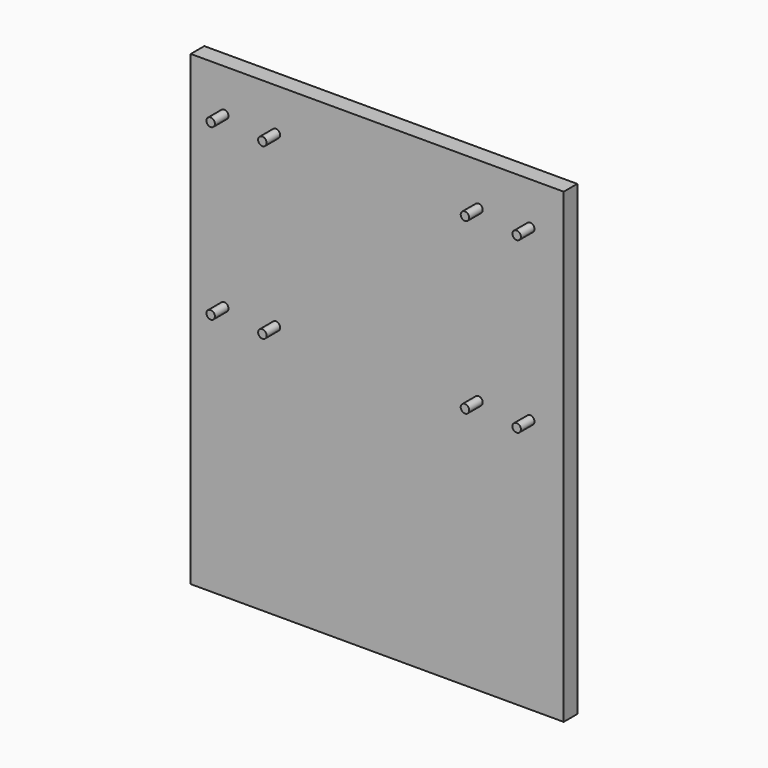
from build123d import *

# Parameters (mm, degrees)
F0_W     = 220
F0_H     = 275.358058
F0_R     = 2.5
F1_DEPTH = 10
F2_DEPTH = 10
F3_R     = 3
F4_DEPTH = 20


with BuildPart() as f1:
    # F0 (on Front) → F1 (new body)
    with BuildSketch(Plane.XZ):
        with Locations((0, -5.406313)):
            Rectangle(F0_W, F0_H)
        with Locations((-90.25, 7.272716)):
            Circle(F0_R, mode=Mode.SUBTRACT)
        with Locations((-59.75, 7.272716)):
            Circle(F0_R, mode=Mode.SUBTRACT)
        with Locations((-90.25, 107.272716)):
            Circle(F0_R, mode=Mode.SUBTRACT)
        with Locations((-59.75, 107.272716)):
            Circle(F0_R, mode=Mode.SUBTRACT)
        with Locations((59.75, 7.272716)):
            Circle(F0_R, mode=Mode.SUBTRACT)
        with Locations((90.25, 7.272716)):
            Circle(F0_R, mode=Mode.SUBTRACT)
        with Locations((59.75, 107.272716)):
            Circle(F0_R, mode=Mode.SUBTRACT)
        with Locations((90.25, 107.272716)):
            Circle(F0_R, mode=Mode.SUBTRACT)
        with Locations((-90.25, 107.272716)):
            Circle(F0_R)
        with Locations((-59.75, 107.272716)):
            Circle(F0_R)
        with Locations((-90.25, 7.272716)):
            Circle(F0_R)
        with Locations((-59.75, 7.272716)):
            Circle(F0_R)
        with Locations((59.75, 7.272716)):
            Circle(F0_R)
        with Locations((90.25, 7.272716)):
            Circle(F0_R)
        with Locations((59.75, 107.272716)):
            Circle(F0_R)
        with Locations((90.25, 107.272716)):
            Circle(F0_R)
    extrude(amount=-F1_DEPTH)

    # F0 (on Front) → F2 (join)
    with BuildSketch(Plane.XZ):
        with Locations((90.25, 107.272716)):
            Circle(F0_R)
        with Locations((59.75, 107.272716)):
            Circle(F0_R)
        with Locations((-59.75, 107.272716)):
            Circle(F0_R)
        with Locations((-90.25, 107.272716)):
            Circle(F0_R)
        with Locations((90.25, 7.272716)):
            Circle(F0_R)
        with Locations((59.75, 7.272716)):
            Circle(F0_R)
        with Locations((-90.25, 7.272716)):
            Circle(F0_R)
        with Locations((-59.75, 7.272716)):
            Circle(F0_R)
    extrude(amount=F2_DEPTH)

    # F3 (on face) → F4 (join)
    with BuildSketch(Plane.XZ):
        with Locations((35, -103.085342)):
            Circle(F3_R)
        with Locations((35, -123.085342)):
            Circle(F3_R)
        with Locations((-35, -123.085342)):
            Circle(F3_R)
        with Locations((-35, -103.085342)):
            Circle(F3_R)
    extrude(amount=-F4_DEPTH)


solid = f1.part
